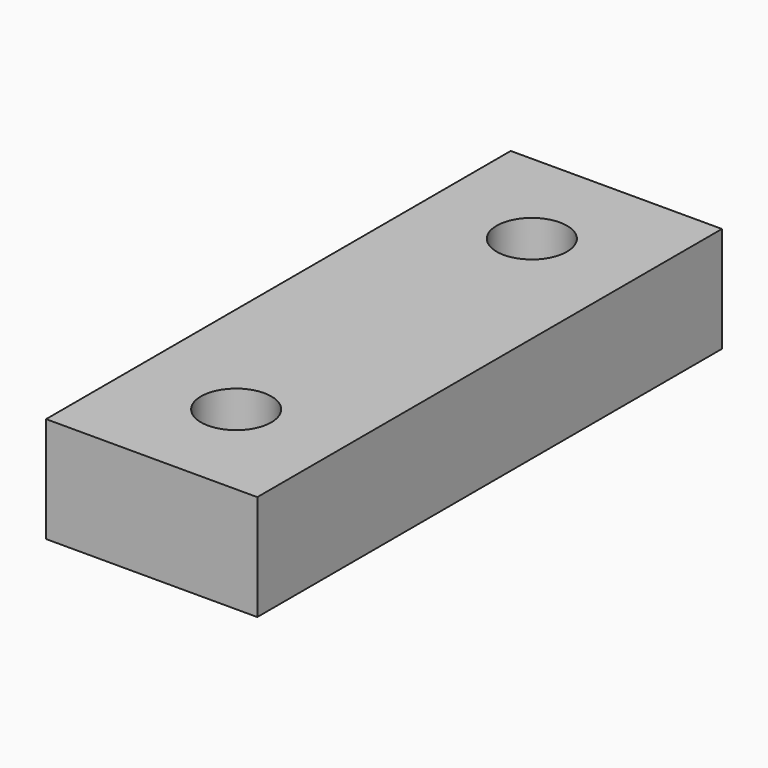
from build123d import *

# Parameters (mm, degrees)
SKETCH_W  = 6
SKETCH_H  = 16.5
SKETCH_R  = 1
PAD_DEPTH = 3


with BuildPart() as part:
    # Sketch → Pad (new body)
    with BuildSketch(Plane.XY):
        with Locations((3, 8.25)):
            Rectangle(SKETCH_W, SKETCH_H)
        with Locations((3, 3)):
            Circle(SKETCH_R, mode=Mode.SUBTRACT)
        with Locations((3, 13.5)):
            Circle(SKETCH_R, mode=Mode.SUBTRACT)
    extrude(amount=PAD_DEPTH)


solid = part.part
